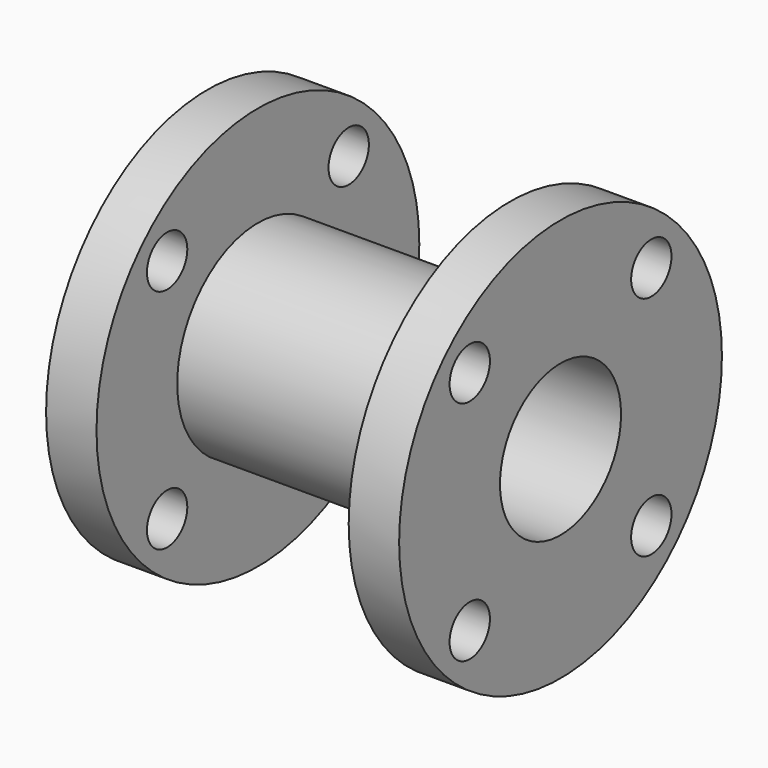
from build123d import *

# Parameters (mm, degrees)
F0_R     = 50.8
F0_R_2   = 6.35
F0_R_3   = 25.4
F1_DEPTH = 12.7
F0_R_4   = 19.05
F2_DEPTH = 88.9
F3_R     = 50.8
F3_R_2   = 6.35
F3_R_3   = 25.4
F4_DEPTH = 12.7


with BuildPart() as f1:
    # F0 (on Right) → F1 (new body)
    with BuildSketch(Plane.YZ):
        Circle(F0_R)
        with Locations((-28.575, -28.575)):
            Circle(F0_R_2, mode=Mode.SUBTRACT)
        Circle(F0_R_3, mode=Mode.SUBTRACT)
        with Locations((28.575, -28.575)):
            Circle(F0_R_2, mode=Mode.SUBTRACT)
        with Locations((-28.575, 28.575)):
            Circle(F0_R_2, mode=Mode.SUBTRACT)
        with Locations((28.575, 28.575)):
            Circle(F0_R_2, mode=Mode.SUBTRACT)
    extrude(amount=F1_DEPTH)

    # F0 (on Right) → F2 (join)
    with BuildSketch(Plane.YZ):
        Circle(F0_R_3)
        Circle(F0_R_4, mode=Mode.SUBTRACT)
    extrude(amount=F2_DEPTH)

    # F3 (on face) → F4 (join)
    with BuildSketch(Plane.YZ.offset(88.9)):
        Circle(F3_R)
        with Locations((-28.575, -28.575)):
            Circle(F3_R_2, mode=Mode.SUBTRACT)
        Circle(F3_R_3, mode=Mode.SUBTRACT)
        with Locations((28.575, -28.575)):
            Circle(F3_R_2, mode=Mode.SUBTRACT)
        with Locations((-28.575, 28.575)):
            Circle(F3_R_2, mode=Mode.SUBTRACT)
        with Locations((28.575, 28.575)):
            Circle(F3_R_2, mode=Mode.SUBTRACT)
    extrude(amount=-F4_DEPTH)


solid = f1.part
